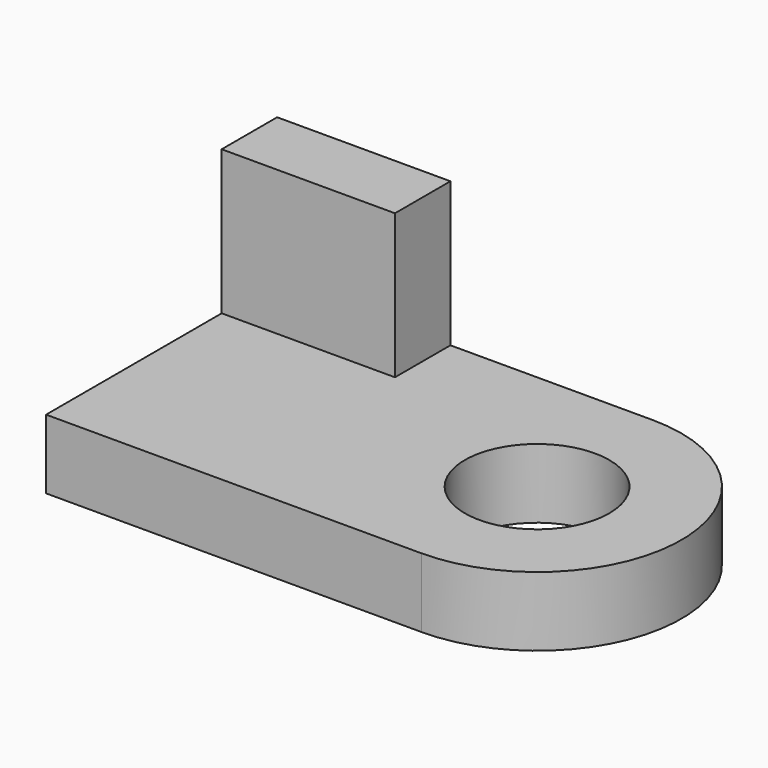
from build123d import *

# Parameters (mm, degrees)
F0_W     = 1651
F0_H     = 1270
F1_DEPTH = 304.8
F2_W     = 762
F2_H     = 304.8
F3_DEPTH = 635
F5_DEPTH = 304.8
F6_R     = 317.5
F7_DEPTH = 947.42


with BuildPart() as f1:
    # F0 (on Top) → F1 (new body)
    with BuildSketch(Plane.XY):
        with Locations((825.5, -635)):
            Rectangle(F0_W, F0_H)
    extrude(amount=F1_DEPTH)

    # F2 (on face) → F3 (join)
    with BuildSketch(Plane.XY.offset(304.8)):
        with Locations((381, -152.4)):
            Rectangle(F2_W, F2_H)
    extrude(amount=F3_DEPTH)

    # F4 (on face) → F5 (join)
    with BuildSketch(Plane.XY.offset(304.8)):
        with BuildLine():
            ThreePointArc((1651, -1270), (2100.0128060535, -1084.0128060535), (2286, -635))
            ThreePointArc((2286, -635), (2100.0128060535, -185.9871939465), (1651, 0))
            Line((1651, 0), (1651, -1270))
        make_face()
    extrude(amount=-F5_DEPTH)

    # F6 (on face) → F7 (cut)
    with BuildSketch(Plane.XY.offset(304.8)):
        with Locations((1651, -635)):
            Circle(F6_R)
    extrude(amount=-F7_DEPTH, mode=Mode.SUBTRACT)


solid = f1.part
